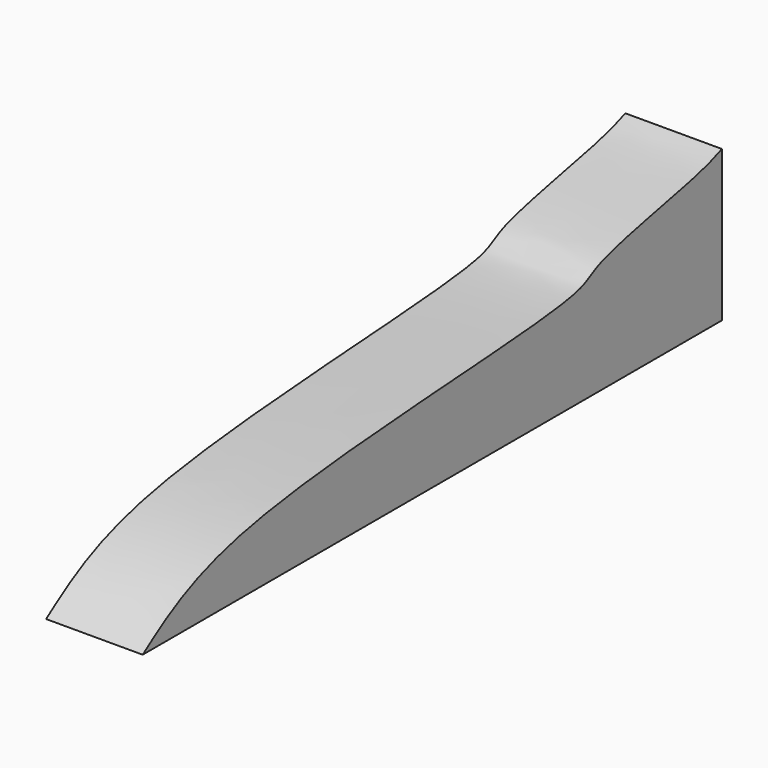
from build123d import *

# Parameters (mm, degrees)
F1_DEPTH = 25.4


with BuildPart() as f1:
    # F0 (on Right) → F1 (new body)
    with BuildSketch(Plane.YZ):
        with BuildLine():
            add(Edge.make_bspline(
                [(95.7057401538, 39.6859794855), (93.5934447921, 38.8253507761), (87.508928352, 36.346289549), (53.251482768, 30.5033222072), (50.0221898173, 22.6171497653), (-64.8754953781, 21.0544631222), (-86.6025840505, 5.7085533572), (-94.6848839521, 0)],
                knots=[0, 0, 0, 0, 0.1069724544, 0.3081366694, 0.4138949384, 0.7819736941, 1, 1, 1, 1], degree=3))
            Line((-94.6848839521, 0), (95.7057401538, 0))
            Line((95.7057401538, 0), (95.7057401538, 12.3779429123))
            Line((95.7057401538, 12.3779429123), (95.7057401538, 25.1387096941))
            Line((95.7057401538, 25.1387096941), (95.7057401538, 39.6859794855))
        make_face()
    extrude(amount=F1_DEPTH)


solid = f1.part
